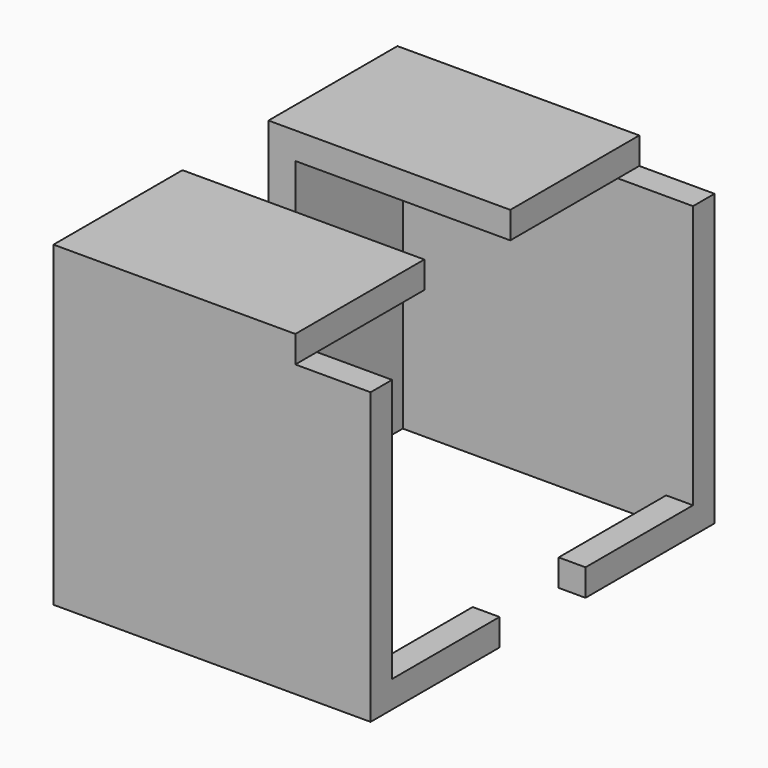
from build123d import *

# Parameters (mm, degrees)
F0_W     = 59
F0_H     = 30
F1_DEPTH = 59
F2_W     = 49
F2_H     = 25
F3_DEPTH = 54
F4_W     = 25
F4_H     = 49
F5_DEPTH = 5
F6_W     = 14
F6_H     = 5
F7_DEPTH = 30


with BuildPart() as f1:
    # F0 (on Top) → F1 (new body)
    with BuildSketch(Plane.XY):
        with Locations((29.5, -15)):
            Rectangle(F0_W, F0_H)
    extrude(amount=F1_DEPTH)

    # F2 (on face) → F3 (cut)
    with BuildSketch(Plane(origin=(0, 0, 0), x_dir=(1, 0, 0), z_dir=(0, 0, -1))):
        with Locations((29.5, 12.5)):
            Rectangle(F2_W, F2_H)
    extrude(amount=-F3_DEPTH, mode=Mode.SUBTRACT)

    # F4 (on face) → F5 (cut)
    with BuildSketch(Plane(origin=(54, 0, 0), x_dir=(0, -1, 0), z_dir=(-1, 0, 0))):
        with Locations((12.5, 29.5)):
            Rectangle(F4_W, F4_H)
    extrude(amount=-F5_DEPTH, mode=Mode.SUBTRACT)

    # F6 (on face) → F7 (cut)
    with BuildSketch(Plane(origin=(0, 0, 0), x_dir=(-1, 0, 0), z_dir=(0, 1, 0))):
        with Locations((-52, 56.5)):
            Rectangle(F6_W, F6_H)
    extrude(amount=-F7_DEPTH, mode=Mode.SUBTRACT)


with BuildPart() as f9_1:
    # F9: instance of F1
    add(f1.part.mirror(Plane.XZ.offset(-10)))


solid = Compound([f1.part, f9_1.part])
